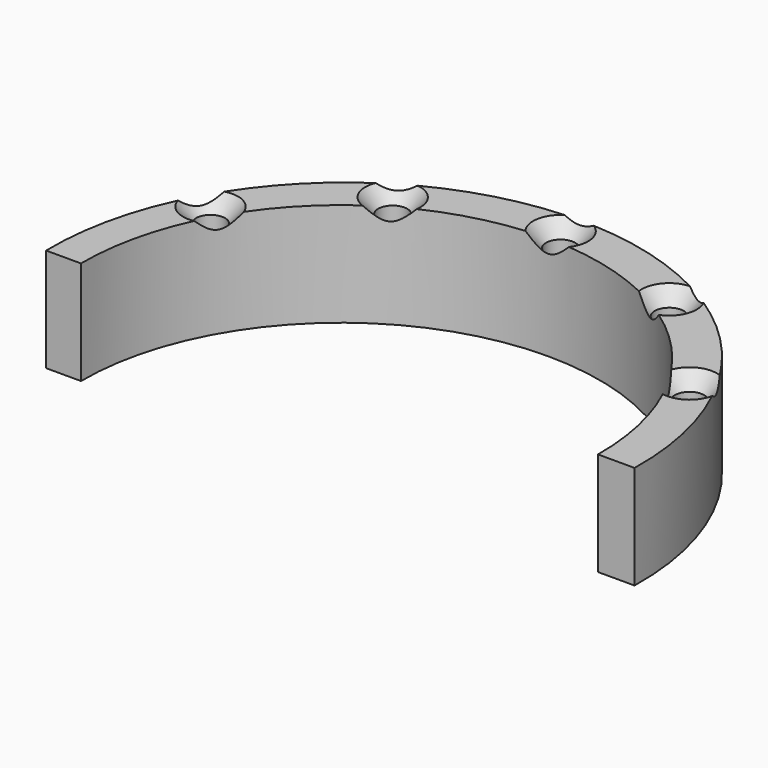
from build123d import *

# Parameters (mm, degrees)
F1_DEPTH       = 25.4
F4_D           = 7.1374
F4_CSINK_D     = 13.4874
F4_CSINK_ANGLE = 82


with BuildPart() as f1:
    # F0 (on Top) → F1 (new body)
    with BuildSketch(Plane.XY):
        with BuildLine():
            Line((63.4191930294, 0), (72.3951980472, 0))
            ThreePointArc((72.3951980472, 0), (0.2274252474, 73.6533240884), (-71.9403475523, 0))
            Line((-71.9403475523, 0), (-63.3806139231, 0))
            ThreePointArc((-63.3806139231, 0), (0.0192895532, 63.9293895387), (63.4191930294, 0))
        make_face()
    extrude(amount=F1_DEPTH)

    # F4 (through all)
    with Locations(Plane.XY.offset(25.4)):
        with Locations((-58.7398867567, 33.9134894311), (-33.9134894311, 58.7398867567), (0, 67.8269788623), (33.9134894311, 58.7398867567), (58.7398867567, 33.9134894311)):
            CounterSinkHole(F4_D / 2, F4_CSINK_D / 2, counter_sink_angle=F4_CSINK_ANGLE)


solid = f1.part
